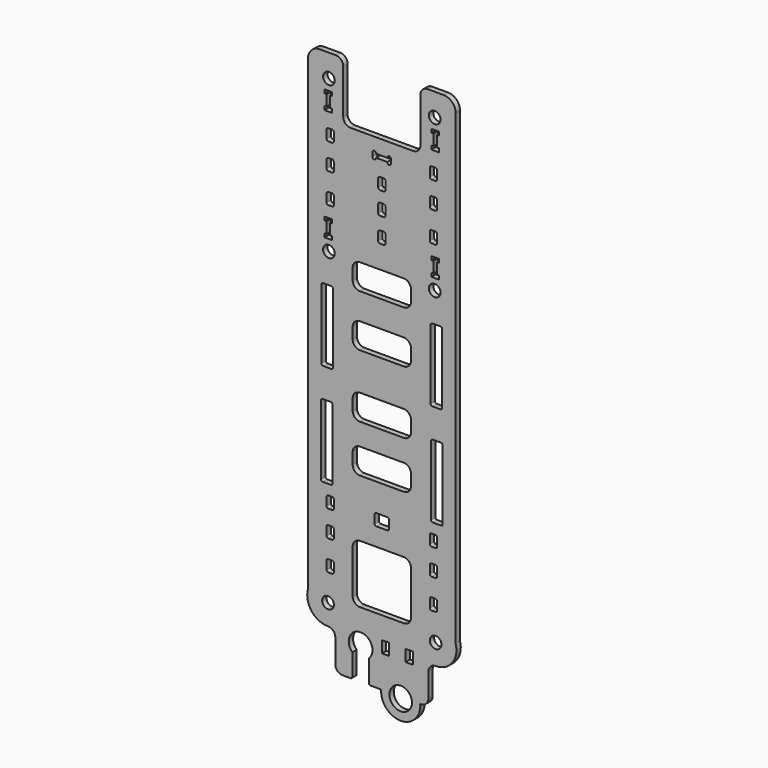
from build123d import *

# Parameters (mm, degrees)
F0_R     = 1.6
F0_W     = 2
F0_H     = 3.2
F0_R_2   = 3.1
F1_DEPTH = 1.5


with BuildPart() as f1:
    # F0 (on Front) → F1 (new body)
    with BuildSketch(Plane.XZ):
        with BuildLine():
            ThreePointArc((-17.389139, 67.483039), (-19.693595, 66.60407), (-20.73358, 64.36766))
            Line((-20.73358, 64.36766), (-20.73358, 64.041773))
            Line((-20.73358, 64.041773), (-20.73358, -63.854805))
            ThreePointArc((-20.73358, -63.854805), (-19.762969, -68.811907), (-15.235352, -71.051467))
            ThreePointArc((-15.235352, -71.051467), (-13.821541, -71.637474), (-13.235974, -73.051467))
            Line((-13.235974, -73.051467), (-13.235974, -79.574477))
            ThreePointArc((-13.235974, -79.574477), (-12.650188, -80.98869), (-11.235974, -81.574477))
            Line((-11.235974, -81.574477), (-9.084389, -81.574477))
            ThreePointArc((-9.084389, -81.574477), (-8.730836, -81.42803), (-8.584389, -81.074477))
            Line((-8.584389, -81.074477), (-8.584389, -75.147613))
            ThreePointArc((-8.584389, -75.147613), (-6.302586, -69.583337), (-4.020784, -75.147613))
            Line((-4.020784, -75.147613), (-4.020784, -81.074477))
            ThreePointArc((-4.020784, -81.074477), (-3.874337, -81.42803), (-3.520784, -81.574477))
            Line((-3.520784, -81.574477), (-0.661676, -81.574477))
            ThreePointArc((-0.661676, -81.574477), (4.692943, -87.372795), (10.047563, -81.574477))
            Line((10.047563, -81.574477), (10.268814, -81.574477))
            ThreePointArc((10.268814, -81.574477), (11.683028, -80.98869), (12.268814, -79.574477))
            Line((12.268814, -79.574477), (12.268814, -73.051467))
            ThreePointArc((12.268814, -73.051467), (12.854262, -71.637592), (14.267857, -71.051468))
            ThreePointArc((14.267857, -71.051468), (18.795707, -68.81204), (19.76642, -63.854805))
            Line((19.76642, -63.854805), (19.76642, 64.041773))
            Line((19.76642, 64.041773), (19.76642, 64.36766))
            ThreePointArc((19.76642, 64.36766), (18.726435, 66.60407), (16.42198, 67.483039))
            Line((16.42198, 67.483039), (12.099423, 67.483039))
            ThreePointArc((12.099423, 67.483039), (10.685209, 66.897252), (10.099423, 65.483039))
            Line((10.099423, 65.483039), (10.099423, 53.266965))
            ThreePointArc((10.099423, 53.266965), (9.513637, 51.852752), (8.099423, 51.266965))
            Line((8.099423, 51.266965), (-0.48358, 51.266965))
            Line((-0.48358, 51.266965), (-9.066583, 51.266965))
            ThreePointArc((-9.066583, 51.266965), (-10.480796, 51.852752), (-11.066583, 53.266965))
            Line((-11.066583, 53.266965), (-11.066583, 65.483039))
            ThreePointArc((-11.066583, 65.483039), (-11.652369, 66.897252), (-13.066583, 67.483039))
            Line((-13.066583, 67.483039), (-17.389139, 67.483039))
        make_face()
        with Locations((-15.23358, -65.351468)):
            Circle(F0_R, mode=Mode.SUBTRACT)
        with BuildLine():
            ThreePointArc((-15.63358, -55.320154), (-15.487133, -54.966601), (-15.13358, -54.820154))
            Line((-15.13358, -54.820154), (-14.13358, -54.820154))
            ThreePointArc((-14.13358, -54.820154), (-13.780026, -54.966601), (-13.63358, -55.320154))
            Line((-13.63358, -55.320154), (-13.63358, -57.520154))
            ThreePointArc((-13.63358, -57.520154), (-13.780026, -57.873708), (-14.13358, -58.020154))
            Line((-14.13358, -58.020154), (-15.13358, -58.020154))
            ThreePointArc((-15.13358, -58.020154), (-15.487133, -57.873708), (-15.63358, -57.520154))
            Line((-15.63358, -57.520154), (-15.63358, -55.320154))
        make_face(mode=Mode.SUBTRACT)
        with BuildLine():
            ThreePointArc((-15.63358, -47.120154), (-15.487133, -46.766601), (-15.13358, -46.620154))
            Line((-15.13358, -46.620154), (-14.13358, -46.620154))
            ThreePointArc((-14.13358, -46.620154), (-13.780026, -46.766601), (-13.63358, -47.120154))
            Line((-13.63358, -47.120154), (-13.63358, -49.320154))
            ThreePointArc((-13.63358, -49.320154), (-13.780026, -49.673708), (-14.13358, -49.820154))
            Line((-14.13358, -49.820154), (-15.13358, -49.820154))
            ThreePointArc((-15.13358, -49.820154), (-15.487133, -49.673708), (-15.63358, -49.320154))
            Line((-15.63358, -49.320154), (-15.63358, -47.120154))
        make_face(mode=Mode.SUBTRACT)
        with BuildLine():
            ThreePointArc((-15.63358, -39.920154), (-15.487133, -39.566601), (-15.13358, -39.420154))
            Line((-15.13358, -39.420154), (-14.13358, -39.420154))
            ThreePointArc((-14.13358, -39.420154), (-13.780026, -39.566601), (-13.63358, -39.920154))
            Line((-13.63358, -39.920154), (-13.63358, -42.120154))
            ThreePointArc((-13.63358, -42.120154), (-13.780026, -42.473708), (-14.13358, -42.620154))
            Line((-14.13358, -42.620154), (-15.13358, -42.620154))
            ThreePointArc((-15.13358, -42.620154), (-15.487133, -42.473708), (-15.63358, -42.120154))
            Line((-15.63358, -42.120154), (-15.63358, -39.920154))
        make_face(mode=Mode.SUBTRACT)
        with BuildLine():
            ThreePointArc((-17.179586, -17.151135), (-17.033139, -16.797581), (-16.679586, -16.651135))
            Line((-16.679586, -16.651135), (-14.479586, -16.651135))
            ThreePointArc((-14.479586, -16.651135), (-14.126032, -16.797581), (-13.979586, -17.151135))
            Line((-13.979586, -17.151135), (-13.979586, -36.151135))
            ThreePointArc((-13.979586, -36.151135), (-14.126032, -36.504688), (-14.479586, -36.651135))
            Line((-14.479586, -36.651135), (-16.679586, -36.651135))
            ThreePointArc((-16.679586, -36.651135), (-17.033139, -36.504688), (-17.179586, -36.151135))
            Line((-17.179586, -36.151135), (-17.179586, -17.151135))
        make_face(mode=Mode.SUBTRACT)
        with Locations((0.51642, -71.174477)):
            Rectangle(F0_W, F0_H, mode=Mode.SUBTRACT)
        with Locations((4.692943, -82.0012)):
            Circle(F0_R_2, mode=Mode.SUBTRACT)
        with Locations((7.01642, -71.174477)):
            Rectangle(F0_W, F0_H, mode=Mode.SUBTRACT)
        with BuildLine():
            ThreePointArc((-8.48358, -49.574477), (-7.897793, -48.160263), (-6.48358, -47.574477))
            Line((-6.48358, -47.574477), (5.51642, -47.574477))
            ThreePointArc((5.51642, -47.574477), (6.930634, -48.160263), (7.51642, -49.574477))
            Line((7.51642, -49.574477), (7.51642, -61.574477))
            ThreePointArc((7.51642, -61.574477), (6.930634, -62.98869), (5.51642, -63.574477))
            Line((5.51642, -63.574477), (-6.48358, -63.574477))
            ThreePointArc((-6.48358, -63.574477), (-7.897793, -62.98869), (-8.48358, -61.574477))
            Line((-8.48358, -61.574477), (-8.48358, -49.574477))
        make_face(mode=Mode.SUBTRACT)
        with Locations((14.26642, -65.351468)):
            Circle(F0_R, mode=Mode.SUBTRACT)
        with BuildLine():
            Line((13.16642, -54.820154), (14.16642, -54.820154))
            ThreePointArc((14.16642, -54.820154), (14.519974, -54.966601), (14.66642, -55.320154))
            Line((14.66642, -55.320154), (14.66642, -57.520154))
            ThreePointArc((14.66642, -57.520154), (14.519974, -57.873708), (14.16642, -58.020154))
            Line((14.16642, -58.020154), (13.16642, -58.020154))
            ThreePointArc((13.16642, -58.020154), (12.812867, -57.873708), (12.66642, -57.520154))
            Line((12.66642, -57.520154), (12.66642, -55.320154))
            ThreePointArc((12.66642, -55.320154), (12.812867, -54.966601), (13.16642, -54.820154))
        make_face(mode=Mode.SUBTRACT)
        with BuildLine():
            ThreePointArc((-2.48358, -39.920158), (-2.337133, -39.566604), (-1.98358, -39.420158))
            Line((-1.98358, -39.420158), (1.01642, -39.420158))
            ThreePointArc((1.01642, -39.420158), (1.369974, -39.566604), (1.51642, -39.920158))
            Line((1.51642, -39.920158), (1.51642, -42.120158))
            ThreePointArc((1.51642, -42.120158), (1.369974, -42.473711), (1.01642, -42.620158))
            Line((1.01642, -42.620158), (-1.98358, -42.620158))
            ThreePointArc((-1.98358, -42.620158), (-2.337133, -42.473711), (-2.48358, -42.120158))
            Line((-2.48358, -42.120158), (-2.48358, -39.920158))
        make_face(mode=Mode.SUBTRACT)
        with BuildLine():
            ThreePointArc((-8.48358, -26.824477), (-7.897793, -25.410263), (-6.48358, -24.824477))
            Line((-6.48358, -24.824477), (5.51642, -24.824477))
            ThreePointArc((5.51642, -24.824477), (6.930634, -25.410263), (7.51642, -26.824477))
            Line((7.51642, -26.824477), (7.51642, -29.824477))
            ThreePointArc((7.51642, -29.824477), (6.930634, -31.23869), (5.51642, -31.824477))
            Line((5.51642, -31.824477), (-6.48358, -31.824477))
            ThreePointArc((-6.48358, -31.824477), (-7.897793, -31.23869), (-8.48358, -29.824477))
            Line((-8.48358, -29.824477), (-8.48358, -26.824477))
        make_face(mode=Mode.SUBTRACT)
        with BuildLine():
            ThreePointArc((-8.48358, -13.824477), (-7.897793, -12.410263), (-6.48358, -11.824477))
            Line((-6.48358, -11.824477), (5.51642, -11.824477))
            ThreePointArc((5.51642, -11.824477), (6.930634, -12.410263), (7.51642, -13.824477))
            Line((7.51642, -13.824477), (7.51642, -16.824477))
            ThreePointArc((7.51642, -16.824477), (6.930634, -18.23869), (5.51642, -18.824477))
            Line((5.51642, -18.824477), (-6.48358, -18.824477))
            ThreePointArc((-6.48358, -18.824477), (-7.897793, -18.23869), (-8.48358, -16.824477))
            Line((-8.48358, -16.824477), (-8.48358, -13.824477))
        make_face(mode=Mode.SUBTRACT)
        with BuildLine():
            Line((14.66642, -47.120154), (14.66642, -49.320154))
            ThreePointArc((14.66642, -49.320154), (14.519974, -49.673708), (14.16642, -49.820154))
            Line((14.16642, -49.820154), (13.16642, -49.820154))
            ThreePointArc((13.16642, -49.820154), (12.812867, -49.673708), (12.66642, -49.320154))
            Line((12.66642, -49.320154), (12.66642, -47.120154))
            ThreePointArc((12.66642, -47.120154), (12.812867, -46.766601), (13.16642, -46.620154))
            Line((13.16642, -46.620154), (14.16642, -46.620154))
            ThreePointArc((14.16642, -46.620154), (14.519974, -46.766601), (14.66642, -47.120154))
        make_face(mode=Mode.SUBTRACT)
        with BuildLine():
            Line((12.66642, -42.120154), (12.66642, -39.920154))
            ThreePointArc((12.66642, -39.920154), (12.812867, -39.566601), (13.16642, -39.420154))
            Line((13.16642, -39.420154), (14.16642, -39.420154))
            ThreePointArc((14.16642, -39.420154), (14.519974, -39.566601), (14.66642, -39.920154))
            Line((14.66642, -39.920154), (14.66642, -42.120154))
            ThreePointArc((14.66642, -42.120154), (14.519974, -42.473708), (14.16642, -42.620154))
            Line((14.16642, -42.620154), (13.16642, -42.620154))
            ThreePointArc((13.16642, -42.620154), (12.812867, -42.473708), (12.66642, -42.120154))
        make_face(mode=Mode.SUBTRACT)
        with BuildLine():
            Line((13.512426, -16.651135), (15.712426, -16.651135))
            ThreePointArc((15.712426, -16.651135), (16.065979, -16.797581), (16.212426, -17.151135))
            Line((16.212426, -17.151135), (16.212426, -36.151135))
            ThreePointArc((16.212426, -36.151135), (16.065979, -36.504688), (15.712426, -36.651135))
            Line((15.712426, -36.651135), (13.512426, -36.651135))
            ThreePointArc((13.512426, -36.651135), (13.158873, -36.504688), (13.012426, -36.151135))
            Line((13.012426, -36.151135), (13.012426, -17.151135))
            ThreePointArc((13.012426, -17.151135), (13.158873, -16.797581), (13.512426, -16.651135))
        make_face(mode=Mode.SUBTRACT)
        with BuildLine():
            ThreePointArc((-17.035663, 10.848865), (-16.889216, 11.202419), (-16.535663, 11.348865))
            Line((-16.535663, 11.348865), (-14.335663, 11.348865))
            ThreePointArc((-14.335663, 11.348865), (-13.98211, 11.202419), (-13.835663, 10.848865))
            Line((-13.835663, 10.848865), (-13.835663, -8.151135))
            ThreePointArc((-13.835663, -8.151135), (-13.98211, -8.504688), (-14.335663, -8.651135))
            Line((-14.335663, -8.651135), (-16.535663, -8.651135))
            ThreePointArc((-16.535663, -8.651135), (-16.889216, -8.504688), (-17.035663, -8.151135))
            Line((-17.035663, -8.151135), (-17.035663, 10.848865))
        make_face(mode=Mode.SUBTRACT)
        with Locations((-14.98358, 19.498532)):
            Circle(F0_R, mode=Mode.SUBTRACT)
        Polygon((-16.19358, 26.542902), (-16.19358, 27.542902), (-14.07358, 27.542902), (-14.07358, 26.542899), (-14.63358, 26.542899), (-14.63358, 23.511902), (-14.07358, 23.511902), (-14.07358, 22.511902), (-16.19358, 22.511902), (-16.19358, 23.511902), (-15.63358, 23.511902), (-15.63358, 26.542902), align=None, mode=Mode.SUBTRACT)
        with BuildLine():
            ThreePointArc((-15.63358, 33.318902), (-15.487133, 33.672456), (-15.13358, 33.818902))
            Line((-15.13358, 33.818902), (-14.13358, 33.818902))
            ThreePointArc((-14.13358, 33.818902), (-13.780026, 33.672456), (-13.63358, 33.318902))
            Line((-13.63358, 33.318902), (-13.63358, 31.118902))
            ThreePointArc((-13.63358, 31.118902), (-13.780026, 30.765349), (-14.13358, 30.618902))
            Line((-14.13358, 30.618902), (-15.13358, 30.618902))
            ThreePointArc((-15.13358, 30.618902), (-15.487133, 30.765349), (-15.63358, 31.118902))
            Line((-15.63358, 31.118902), (-15.63358, 33.318902))
        make_face(mode=Mode.SUBTRACT)
        with BuildLine():
            ThreePointArc((-15.63358, 41.518902), (-15.487133, 41.872456), (-15.13358, 42.018902))
            Line((-15.13358, 42.018902), (-14.13358, 42.018902))
            ThreePointArc((-14.13358, 42.018902), (-13.780026, 41.872456), (-13.63358, 41.518902))
            Line((-13.63358, 41.518902), (-13.63358, 39.318902))
            ThreePointArc((-13.63358, 39.318902), (-13.780026, 38.965349), (-14.13358, 38.818902))
            Line((-14.13358, 38.818902), (-15.13358, 38.818902))
            ThreePointArc((-15.13358, 38.818902), (-15.487133, 38.965349), (-15.63358, 39.318902))
            Line((-15.63358, 39.318902), (-15.63358, 41.518902))
        make_face(mode=Mode.SUBTRACT)
        with BuildLine():
            ThreePointArc((-15.63358, 48.718902), (-15.487133, 49.072456), (-15.13358, 49.218902))
            Line((-15.13358, 49.218902), (-14.13358, 49.218902))
            ThreePointArc((-14.13358, 49.218902), (-13.780026, 49.072456), (-13.63358, 48.718902))
            Line((-13.63358, 48.718902), (-13.63358, 46.518902))
            ThreePointArc((-13.63358, 46.518902), (-13.780026, 46.165349), (-14.13358, 46.018902))
            Line((-14.13358, 46.018902), (-15.13358, 46.018902))
            ThreePointArc((-15.13358, 46.018902), (-15.487133, 46.165349), (-15.63358, 46.518902))
            Line((-15.63358, 46.518902), (-15.63358, 48.718902))
        make_face(mode=Mode.SUBTRACT)
        Polygon((-14.07358, 57.249902), (-14.63358, 57.249902), (-14.63358, 54.218906), (-14.07358, 54.218906), (-14.07358, 53.218902), (-16.19358, 53.218902), (-16.19358, 54.218902), (-15.63358, 54.218902), (-15.63358, 57.249902), (-16.19358, 57.249902), (-16.19358, 58.249902), (-14.07358, 58.249902), align=None, mode=Mode.SUBTRACT)
        with Locations((-14.98358, 61.248532)):
            Circle(F0_R, mode=Mode.SUBTRACT)
        with BuildLine():
            ThreePointArc((-2.552586, 45.740151), (-2.90614, 45.886598), (-3.052586, 46.240151))
            Line((-3.052586, 46.240151), (-3.052586, 47.360151))
            ThreePointArc((-3.052586, 47.360151), (-2.90614, 47.713705), (-2.552586, 47.860151))
            ThreePointArc((-2.552586, 47.860151), (-2.199033, 47.713705), (-2.052586, 47.360151))
            Line((-2.052586, 47.360151), (-2.052586, 47.300151))
            Line((-2.052586, 47.300151), (-0.48358, 47.300151))
            Line((-0.48358, 47.300151), (1.03192, 47.300151))
            Line((1.03192, 47.300151), (1.03192, 47.360151))
            ThreePointArc((1.03192, 47.360151), (1.178367, 47.713705), (1.53192, 47.860151))
            ThreePointArc((1.53192, 47.860151), (1.885474, 47.713705), (2.03192, 47.360151))
            Line((2.03192, 47.360151), (2.03192, 46.240151))
            ThreePointArc((2.03192, 46.240151), (1.885474, 45.886598), (1.53192, 45.740151))
            ThreePointArc((1.53192, 45.740151), (1.178367, 45.886598), (1.03192, 46.240151))
            Line((1.03192, 46.240151), (1.03192, 46.300151))
            Line((1.03192, 46.300151), (-0.48358, 46.300151))
            Line((-0.48358, 46.300151), (-2.052586, 46.300151))
            Line((-2.052586, 46.300151), (-2.052586, 46.240151))
            ThreePointArc((-2.052586, 46.240151), (-2.199033, 45.886598), (-2.552586, 45.740151))
        make_face(mode=Mode.SUBTRACT)
        with BuildLine():
            ThreePointArc((-8.48358, 3.425523), (-7.897793, 4.839737), (-6.48358, 5.425523))
            Line((-6.48358, 5.425523), (5.51642, 5.425523))
            ThreePointArc((5.51642, 5.425523), (6.930634, 4.839737), (7.51642, 3.425523))
            Line((7.51642, 3.425523), (7.51642, 0.425523))
            ThreePointArc((7.51642, 0.425523), (6.930634, -0.98869), (5.51642, -1.574477))
            Line((5.51642, -1.574477), (-6.48358, -1.574477))
            ThreePointArc((-6.48358, -1.574477), (-7.897793, -0.98869), (-8.48358, 0.425523))
            Line((-8.48358, 0.425523), (-8.48358, 3.425523))
        make_face(mode=Mode.SUBTRACT)
        with BuildLine():
            ThreePointArc((-8.48358, 17.675523), (-7.897793, 19.089737), (-6.48358, 19.675523))
            Line((-6.48358, 19.675523), (5.51642, 19.675523))
            ThreePointArc((5.51642, 19.675523), (6.930634, 19.089737), (7.51642, 17.675523))
            Line((7.51642, 17.675523), (7.51642, 14.675523))
            ThreePointArc((7.51642, 14.675523), (6.930634, 13.26131), (5.51642, 12.675523))
            Line((5.51642, 12.675523), (-6.48358, 12.675523))
            ThreePointArc((-6.48358, 12.675523), (-7.897793, 13.26131), (-8.48358, 14.675523))
            Line((-8.48358, 14.675523), (-8.48358, 17.675523))
        make_face(mode=Mode.SUBTRACT)
        with BuildLine():
            ThreePointArc((-1.48358, 28.646813), (-1.337133, 29.000367), (-0.98358, 29.146813))
            Line((-0.98358, 29.146813), (0.01642, 29.146813))
            ThreePointArc((0.01642, 29.146813), (0.369974, 29.000367), (0.51642, 28.646813))
            Line((0.51642, 28.646813), (0.51642, 26.446813))
            ThreePointArc((0.51642, 26.446813), (0.369974, 26.09326), (0.01642, 25.946813))
            Line((0.01642, 25.946813), (-0.98358, 25.946813))
            ThreePointArc((-0.98358, 25.946813), (-1.337133, 26.09326), (-1.48358, 26.446813))
            Line((-1.48358, 26.446813), (-1.48358, 28.646813))
        make_face(mode=Mode.SUBTRACT)
        with BuildLine():
            Line((16.068503, 10.848865), (16.068503, -8.151135))
            ThreePointArc((16.068503, -8.151135), (15.922057, -8.504688), (15.568503, -8.651135))
            Line((15.568503, -8.651135), (13.368503, -8.651135))
            ThreePointArc((13.368503, -8.651135), (13.01495, -8.504688), (12.868503, -8.151135))
            Line((12.868503, -8.151135), (12.868503, 10.848865))
            ThreePointArc((12.868503, 10.848865), (13.01495, 11.202419), (13.368503, 11.348865))
            Line((13.368503, 11.348865), (15.568503, 11.348865))
            ThreePointArc((15.568503, 11.348865), (15.922057, 11.202419), (16.068503, 10.848865))
        make_face(mode=Mode.SUBTRACT)
        with Locations((14.01642, 19.498532)):
            Circle(F0_R, mode=Mode.SUBTRACT)
        Polygon((13.10642, 23.511902), (13.66642, 23.511902), (13.66642, 26.542899), (13.10642, 26.542899), (13.10642, 27.542902), (15.22642, 27.542902), (15.22642, 26.542902), (14.66642, 26.542902), (14.66642, 23.511902), (15.22642, 23.511902), (15.22642, 22.511902), (13.10642, 22.511902), align=None, mode=Mode.SUBTRACT)
        with BuildLine():
            ThreePointArc((-1.48358, 35.346813), (-1.337133, 35.700367), (-0.98358, 35.846813))
            Line((-0.98358, 35.846813), (0.01642, 35.846813))
            ThreePointArc((0.01642, 35.846813), (0.369974, 35.700367), (0.51642, 35.346813))
            Line((0.51642, 35.346813), (0.51642, 33.146813))
            ThreePointArc((0.51642, 33.146813), (0.369974, 32.79326), (0.01642, 32.646813))
            Line((0.01642, 32.646813), (-0.98358, 32.646813))
            ThreePointArc((-0.98358, 32.646813), (-1.337133, 32.79326), (-1.48358, 33.146813))
            Line((-1.48358, 33.146813), (-1.48358, 35.346813))
        make_face(mode=Mode.SUBTRACT)
        with BuildLine():
            ThreePointArc((-1.48358, 41.546813), (-1.337133, 41.900367), (-0.98358, 42.046813))
            Line((-0.98358, 42.046813), (0.01642, 42.046813))
            ThreePointArc((0.01642, 42.046813), (0.369974, 41.900367), (0.51642, 41.546813))
            Line((0.51642, 41.546813), (0.51642, 39.346813))
            ThreePointArc((0.51642, 39.346813), (0.369974, 38.99326), (0.01642, 38.846813))
            Line((0.01642, 38.846813), (-0.98358, 38.846813))
            ThreePointArc((-0.98358, 38.846813), (-1.337133, 38.99326), (-1.48358, 39.346813))
            Line((-1.48358, 39.346813), (-1.48358, 41.546813))
        make_face(mode=Mode.SUBTRACT)
        with BuildLine():
            Line((12.66642, 31.118902), (12.66642, 33.318902))
            ThreePointArc((12.66642, 33.318902), (12.812867, 33.672456), (13.16642, 33.818902))
            Line((13.16642, 33.818902), (14.16642, 33.818902))
            ThreePointArc((14.16642, 33.818902), (14.519974, 33.672456), (14.66642, 33.318902))
            Line((14.66642, 33.318902), (14.66642, 31.118902))
            ThreePointArc((14.66642, 31.118902), (14.519974, 30.765349), (14.16642, 30.618902))
            Line((14.16642, 30.618902), (13.16642, 30.618902))
            ThreePointArc((13.16642, 30.618902), (12.812867, 30.765349), (12.66642, 31.118902))
        make_face(mode=Mode.SUBTRACT)
        with BuildLine():
            Line((14.66642, 41.518902), (14.66642, 39.318902))
            ThreePointArc((14.66642, 39.318902), (14.519974, 38.965349), (14.16642, 38.818902))
            Line((14.16642, 38.818902), (13.16642, 38.818902))
            ThreePointArc((13.16642, 38.818902), (12.812867, 38.965349), (12.66642, 39.318902))
            Line((12.66642, 39.318902), (12.66642, 41.518902))
            ThreePointArc((12.66642, 41.518902), (12.812867, 41.872456), (13.16642, 42.018902))
            Line((13.16642, 42.018902), (14.16642, 42.018902))
            ThreePointArc((14.16642, 42.018902), (14.519974, 41.872456), (14.66642, 41.518902))
        make_face(mode=Mode.SUBTRACT)
        with BuildLine():
            Line((13.16642, 49.218902), (14.16642, 49.218902))
            ThreePointArc((14.16642, 49.218902), (14.519974, 49.072456), (14.66642, 48.718902))
            Line((14.66642, 48.718902), (14.66642, 46.518902))
            ThreePointArc((14.66642, 46.518902), (14.519974, 46.165349), (14.16642, 46.018902))
            Line((14.16642, 46.018902), (13.16642, 46.018902))
            ThreePointArc((13.16642, 46.018902), (12.812867, 46.165349), (12.66642, 46.518902))
            Line((12.66642, 46.518902), (12.66642, 48.718902))
            ThreePointArc((12.66642, 48.718902), (12.812867, 49.072456), (13.16642, 49.218902))
        make_face(mode=Mode.SUBTRACT)
        Polygon((14.66642, 57.249902), (14.66642, 54.218902), (15.22642, 54.218902), (15.22642, 53.218902), (13.10642, 53.218902), (13.10642, 54.218906), (13.66642, 54.218906), (13.66642, 57.249902), (13.10642, 57.249902), (13.10642, 58.249902), (15.22642, 58.249902), (15.22642, 57.249902), align=None, mode=Mode.SUBTRACT)
        with Locations((14.01642, 61.248532)):
            Circle(F0_R, mode=Mode.SUBTRACT)
        with BuildLine():
            Line((-20.73358, 64.041773), (-20.73358, 64.36766))
            ThreePointArc((-20.73358, 64.36766), (-20.737631, 64.204717), (-20.73358, 64.041773))
        make_face()
        with BuildLine():
            ThreePointArc((19.76642, 64.041773), (19.770471, 64.204717), (19.76642, 64.36766))
            Line((19.76642, 64.36766), (19.76642, 64.041773))
        make_face()
    extrude(amount=F1_DEPTH)


solid = f1.part
